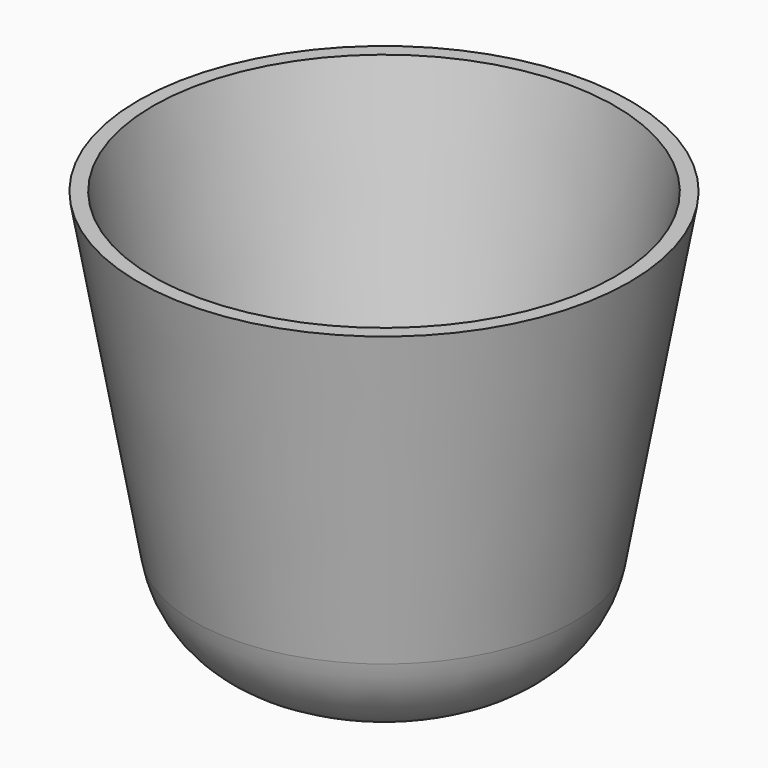
from build123d import *

# Parameters (mm, degrees)
F0_R     = 29.9071652846
F1_DEPTH = 71.4429914951
F1_TAPER = -10
F2_R     = 20
F3_T     = -2.5


with BuildPart() as f1:
    # F0 (on Top) → F1 (new body)
    with BuildSketch(Plane.XY):
        with Locations((40.9262999892, 0)):
            Circle(F0_R)
    extrude(amount=F1_DEPTH, taper=F1_TAPER)

    # F2
    f2_edges = [f1.edges().sort_by_distance(p)[0] for p in [
        (11.019135, 0, 0),
    ]]
    fillet(f2_edges, radius=F2_R)

    # F3
    f3_openings = [f1.faces().sort_by_distance(p)[0] for p in [
        (40.9263, 0, 71.442991),
    ]]
    offset(amount=F3_T, openings=f3_openings, kind=Kind.INTERSECTION)


solid = f1.part
